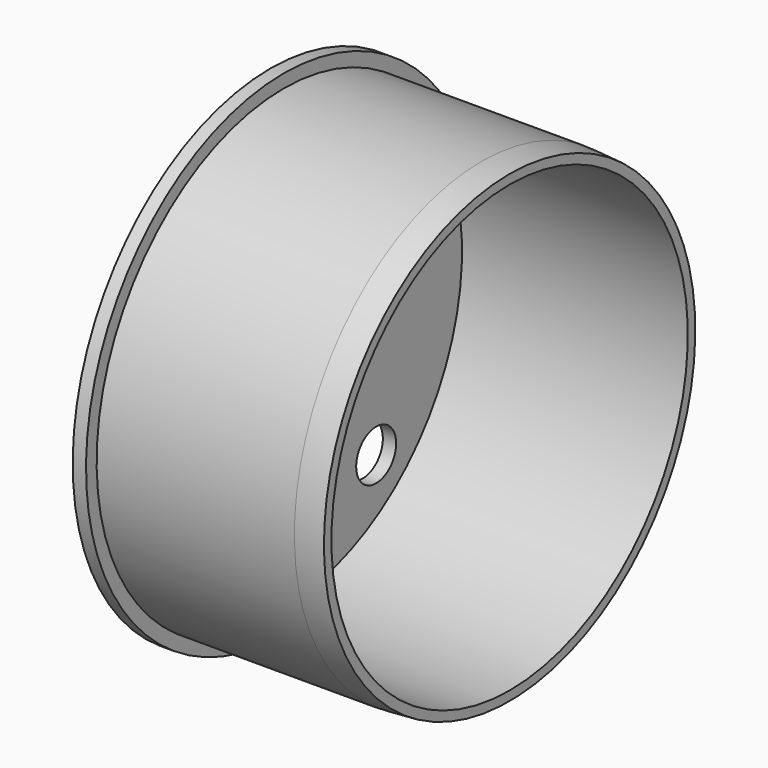
from build123d import *

# Parameters (mm, degrees)
SKETCH001_R   = 4
SKETCH001_R_2 = 2.5
POCKET_DEPTH  = 38.321


with BuildPart() as part:
    # Sketch → Revolution (revolve)
    with BuildSketch(Plane.XZ):
        Polygon((0, 0), (0, 39.63), (2.13, 39.63), (2.13, 37.5), (33.82, 37.5), (38.32, 37.2), (38.32, 35.7), (2.13, 35.7), (2.13, 0), align=None)
    revolve(axis=Axis((0, 0, 0), (1, 0, 0)))

    # Sketch001 (on Face1 of Revolution) → Pocket (cut, through all)
    with BuildSketch(Plane(origin=(0, 0, 0), x_dir=(0, 0, -1), z_dir=(-1, 0, 0))):
        Circle(SKETCH001_R)
        with Locations((0, 18.5)):
            Circle(SKETCH001_R_2)
        with Locations((0, -18.5)):
            Circle(SKETCH001_R_2)
        with Locations((21.75, -18.5)):
            Circle(SKETCH001_R)
    extrude(amount=-POCKET_DEPTH, mode=Mode.SUBTRACT)


solid = part.part
